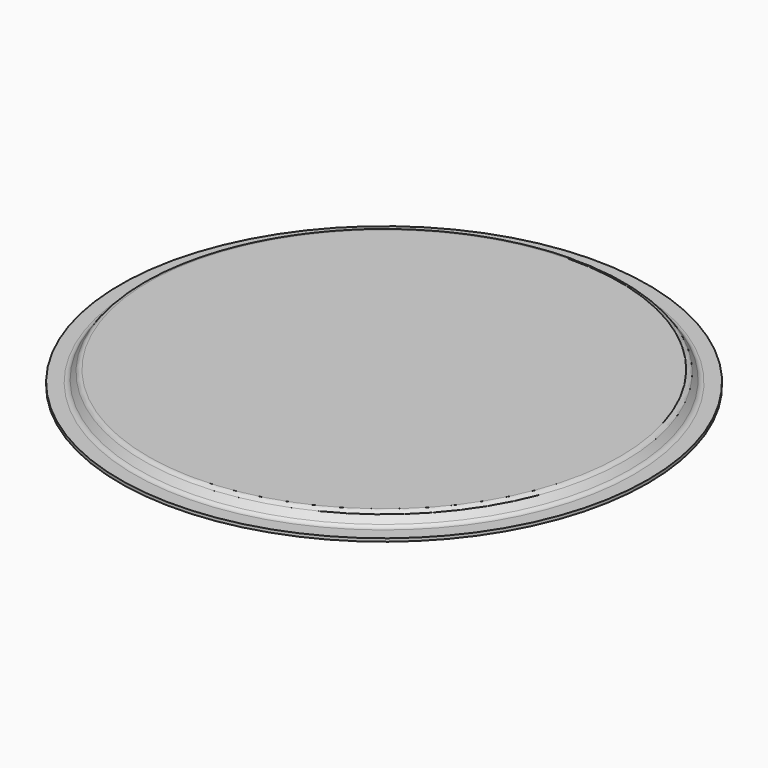
from build123d import *


with BuildPart() as f1:
    # F0 (on Front) → F1 (revolve)
    with BuildSketch(Plane.XZ):
        with BuildLine():
            Line((263.749147, 0), (0, 0))
            Line((0, 0), (0, -3.429))
            Line((0, -3.429), (265.266785, -3.429))
            Line((265.266785, -3.429), (271.268617, -11.971682))
            ThreePointArc((271.268617, -11.971682), (274.761643, -15.027651), (279.270213, -16.129))
            Line((279.270213, -16.129), (295.021, -16.129))
            Line((295.021, -16.129), (295.021, -12.7))
            Line((295.021, -12.7), (279.270213, -12.7))
            ThreePointArc((279.270213, -12.7), (276.34257, -11.984839), (274.074372, -10.000443))
            Line((274.074372, -10.000443), (268.944989, -2.699557))
            ThreePointArc((268.944989, -2.699557), (266.676791, -0.715161), (263.749147, 0))
        make_face()
    revolve(axis=Axis((0, 0, -1.7145), (0, 0, -1)))


solid = f1.part
